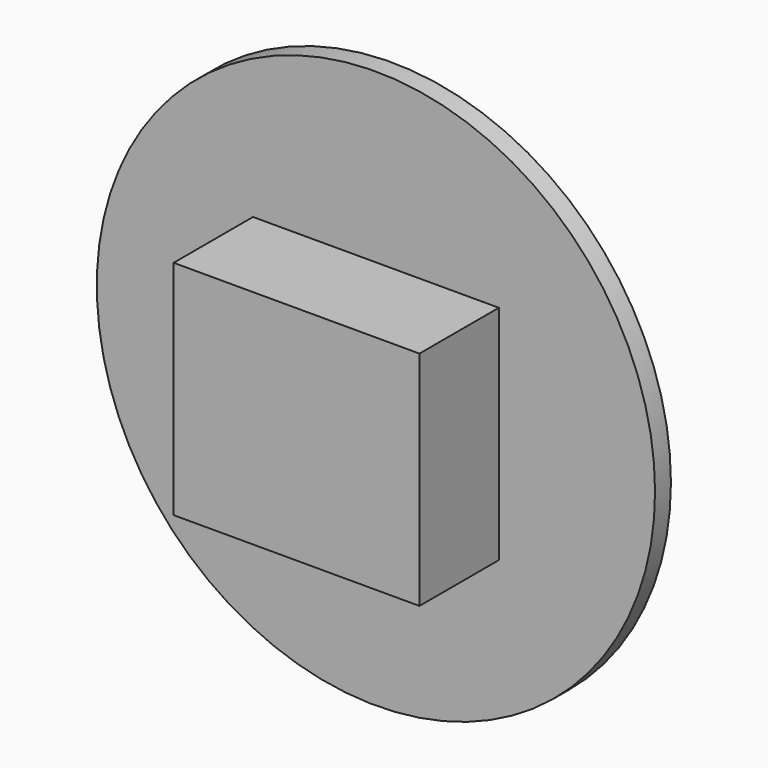
from build123d import *

# Parameters (mm, degrees)
F0_R     = 7.14652
F1_DEPTH = 0.508
F3_DEPTH = 2.54


with BuildPart() as f1:
    # F0 (on Front) → F1 (new body)
    with BuildSketch(Plane.XZ):
        Circle(F0_R)
    extrude(amount=F1_DEPTH)

    # F2 (on face) → F3 (join)
    with BuildSketch(Plane.XZ.offset(0.508)):
        Polygon((-1.3e-05, 2.843966), (-3.146538, 2.843966), (-3.146538, -2.843853), (3.146511, -2.843853), (3.146511, 2.843966), align=None)
    extrude(amount=F3_DEPTH)


solid = f1.part
